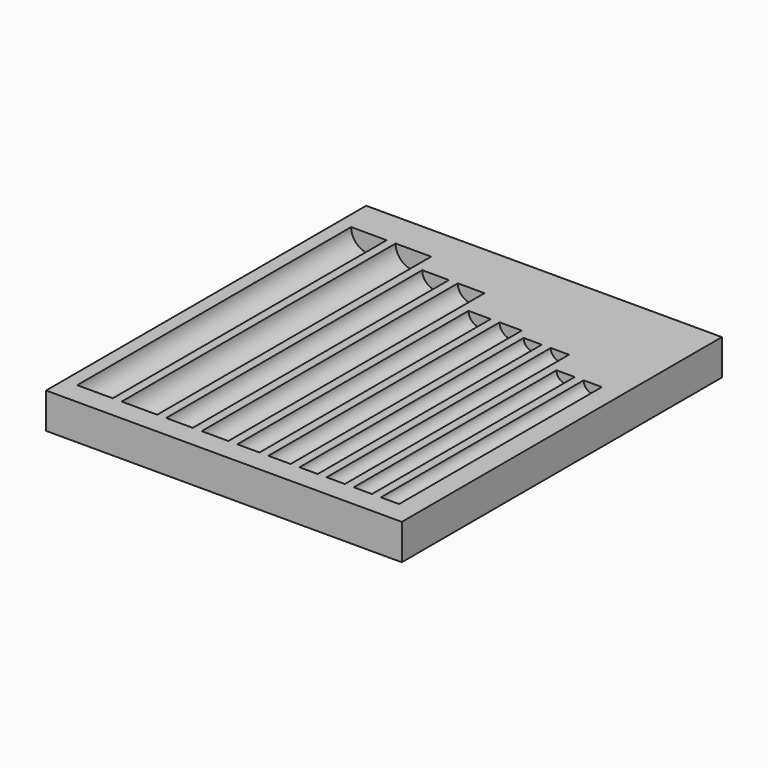
from build123d import *

# Parameters (mm, degrees)
F0_W     = 80
F0_H     = 90
F1_DEPTH = 8
F3_DEPTH = 82
F4_DEPTH = 77
F5_DEPTH = 70
F6_DEPTH = 68
F7_DEPTH = 62
F8_DEPTH = 5


with BuildPart() as f1:
    # F0 (on Top) → F1 (new body)
    with BuildSketch(Plane.XY):
        with Locations((-20.8165652305, -23.7756354961)):
            Rectangle(F0_W, F0_H)
    extrude(amount=F1_DEPTH)

    # F2 (on face) → F3 (cut)
    with BuildSketch(Plane.XZ.offset(68.7756354961)):
        with BuildLine():
            ThreePointArc((-57.8165652305, 8), (-53.8165652305, 4), (-49.8165652305, 8))
            Line((-49.8165652305, 8), (-57.8165652305, 8))
        make_face()
        with BuildLine():
            Line((-39.8165652305, 8), (-47.8165652305, 8))
            ThreePointArc((-47.8165652305, 8), (-43.8165652305, 4), (-39.8165652305, 8))
        make_face()
    extrude(amount=-F3_DEPTH, mode=Mode.SUBTRACT)

    # F2 (on face) → F4 (cut)
    with BuildSketch(Plane.XZ.offset(68.7756354961)):
        with BuildLine():
            Line((-31.8165652305, 8), (-37.8165652305, 8))
            ThreePointArc((-37.8165652305, 8), (-34.8165652305, 5), (-31.8165652305, 8))
        make_face()
        with BuildLine():
            Line((-23.8165652305, 8), (-29.8165652305, 8))
            ThreePointArc((-29.8165652305, 8), (-26.8165652305, 5), (-23.8165652305, 8))
        make_face()
    extrude(amount=-F4_DEPTH, mode=Mode.SUBTRACT)

    # F2 (on face) → F5 (cut)
    with BuildSketch(Plane.XZ.offset(68.7756354961)):
        with BuildLine():
            Line((-16.8165652305, 8), (-21.8165652305, 8))
            ThreePointArc((-21.8165652305, 8), (-19.3165652305, 5.5), (-16.8165652305, 8))
        make_face()
        with BuildLine():
            Line((-9.8165652305, 8), (-14.8165652305, 8))
            ThreePointArc((-14.8165652305, 8), (-12.3165652305, 5.5), (-9.8165652305, 8))
        make_face()
    extrude(amount=-F5_DEPTH, mode=Mode.SUBTRACT)

    # F2 (on face) → F6 (cut)
    with BuildSketch(Plane.XZ.offset(68.7756354961)):
        with BuildLine():
            Line((-3.7165652305, 8), (-7.8165652305, 8))
            ThreePointArc((-7.8165652305, 8), (-5.7665652305, 5.95), (-3.7165652305, 8))
        make_face()
        with BuildLine():
            ThreePointArc((-1.7165652305, 8), (0.3334347695, 5.95), (2.3834347695, 8))
            Line((2.3834347695, 8), (-1.7165652305, 8))
        make_face()
    extrude(amount=-F6_DEPTH, mode=Mode.SUBTRACT)

    # F2 (on face) → F7 (cut)
    with BuildSketch(Plane.XZ.offset(68.7756354961)):
        with BuildLine():
            ThreePointArc((4.3834347695, 8), (6.4334347695, 5.95), (8.4834347695, 8))
            Line((8.4834347695, 8), (4.3834347695, 8))
        make_face()
        with BuildLine():
            ThreePointArc((10.4834347695, 8), (12.5334347695, 5.95), (14.5834347695, 8))
            Line((14.5834347695, 8), (10.4834347695, 8))
        make_face()
    extrude(amount=-F7_DEPTH, mode=Mode.SUBTRACT)

    # F2 (on face) → F8 (join)
    with BuildSketch(Plane.XZ.offset(68.7756354961)):
        with BuildLine():
            ThreePointArc((-57.8165652305, 8), (-53.8165652305, 4), (-49.8165652305, 8))
            Line((-49.8165652305, 8), (-57.8165652305, 8))
        make_face()
        with BuildLine():
            Line((-39.8165652305, 8), (-47.8165652305, 8))
            ThreePointArc((-47.8165652305, 8), (-43.8165652305, 4), (-39.8165652305, 8))
        make_face()
        with BuildLine():
            Line((-31.8165652305, 8), (-37.8165652305, 8))
            ThreePointArc((-37.8165652305, 8), (-34.8165652305, 5), (-31.8165652305, 8))
        make_face()
        with BuildLine():
            Line((-23.8165652305, 8), (-29.8165652305, 8))
            ThreePointArc((-29.8165652305, 8), (-26.8165652305, 5), (-23.8165652305, 8))
        make_face()
        with BuildLine():
            Line((-16.8165652305, 8), (-21.8165652305, 8))
            ThreePointArc((-21.8165652305, 8), (-19.3165652305, 5.5), (-16.8165652305, 8))
        make_face()
        with BuildLine():
            Line((-9.8165652305, 8), (-14.8165652305, 8))
            ThreePointArc((-14.8165652305, 8), (-12.3165652305, 5.5), (-9.8165652305, 8))
        make_face()
        with BuildLine():
            Line((-3.7165652305, 8), (-7.8165652305, 8))
            ThreePointArc((-7.8165652305, 8), (-5.7665652305, 5.95), (-3.7165652305, 8))
        make_face()
        with BuildLine():
            ThreePointArc((-1.7165652305, 8), (0.3334347695, 5.95), (2.3834347695, 8))
            Line((2.3834347695, 8), (-1.7165652305, 8))
        make_face()
        with BuildLine():
            ThreePointArc((4.3834347695, 8), (6.4334347695, 5.95), (8.4834347695, 8))
            Line((8.4834347695, 8), (4.3834347695, 8))
        make_face()
        with BuildLine():
            ThreePointArc((10.4834347695, 8), (12.5334347695, 5.95), (14.5834347695, 8))
            Line((14.5834347695, 8), (10.4834347695, 8))
        make_face()
    extrude(amount=-F8_DEPTH)


solid = f1.part
